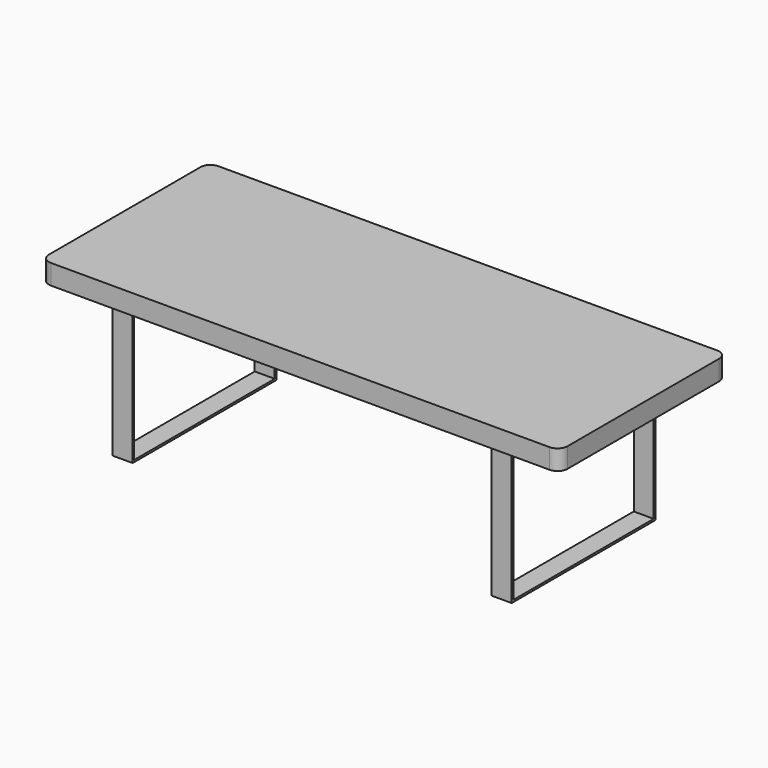
from build123d import *

# Parameters (mm, degrees)
F0_W          = 2600
F0_H          = 1050
F1_DEPTH      = 100
F2_W          = 900
F2_H          = 700
F2_W_2        = 880
F2_H_2        = 680
F3_DEPTH      = 1000
F4_W          = 1800
F4_H          = 700
F5_DEPTH      = 525.001
F5_DEPTH_BACK = 525.001
F6_R          = 50


with BuildPart() as f1:
    # F0 (on Top) → F1 (new body)
    with BuildSketch(Plane.XY):
        Rectangle(F0_W, F0_H)
    extrude(amount=F1_DEPTH)

    # F2 (on Right) → F3 (join, symmetric)
    with BuildSketch(Plane.YZ):
        with Locations((0, -350)):
            Rectangle(F2_W, F2_H)
        with Locations((0, -350)):
            Rectangle(F2_W_2, F2_H_2, mode=Mode.SUBTRACT)
    extrude(amount=F3_DEPTH, both=True)

    # F4 (on Front) → F5 (cut, two sides)
    with BuildSketch(Plane.XZ) as f5_sk:
        with Locations((0, -350)):
            Rectangle(F4_W, F4_H)
    extrude(amount=-F5_DEPTH, mode=Mode.SUBTRACT)
    extrude(f5_sk.sketch, amount=F5_DEPTH_BACK, mode=Mode.SUBTRACT)

    # F6
    f6_edges = [f1.edges().sort_by_distance(p)[0] for p in [
        (1300, -525, 50),
        (1300, 525, 50),
        (-1300, 525, 50),
        (-1300, -525, 50),
    ]]
    fillet(f6_edges, radius=F6_R)


solid = f1.part
